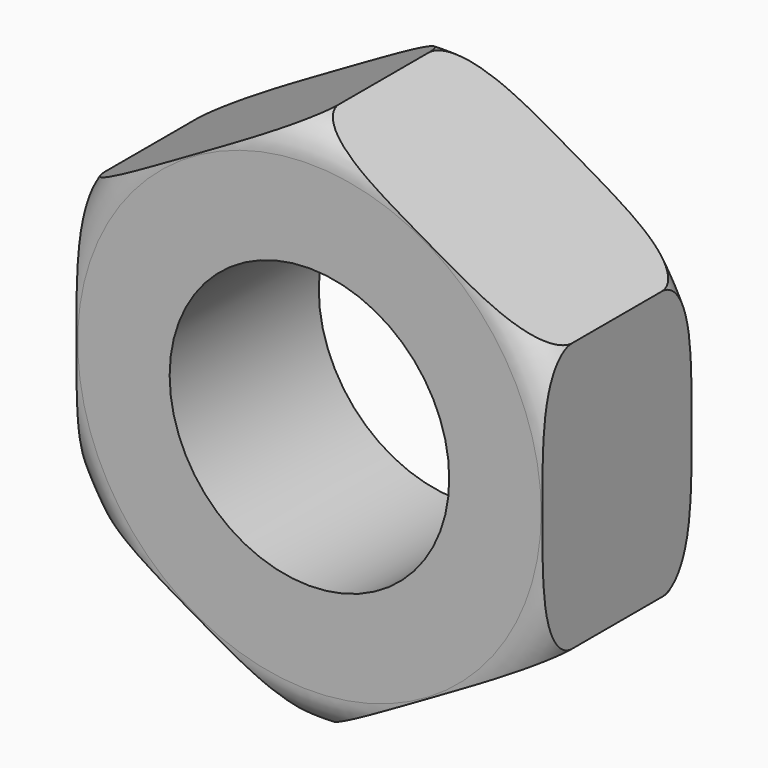
from build123d import *

# Parameters (mm, degrees)
F0_R     = 5.7735026919
F0_R_2   = 3
F1_DEPTH = 2
F3_R     = 0.8
F2_R     = 6
F4_DEPTH = 4.001


with BuildPart() as f1:
    # F0 (on Front) → F1 (new body, symmetric)
    with BuildSketch(Plane.XZ):
        Circle(F0_R)
        Circle(F0_R_2, mode=Mode.SUBTRACT)
    extrude(amount=F1_DEPTH, both=True)

    # F3
    f3_edges = [f1.edges().sort_by_distance(p)[0] for p in [
        (-5.773503, -2, 0),
        (-5.773503, 2, 0),
    ]]
    fillet(f3_edges, radius=F3_R)

    # F2 (on face) → F4 (cut, through all)
    with BuildSketch(Plane.XZ.offset(2)):
        Circle(F2_R)
        Polygon((0, -5.7735026919), (-5, -2.8867513459), (-5, 2.8867513459), (0, 5.7735026919), (5, 2.8867513459), (5, -2.8867513459), align=None, mode=Mode.SUBTRACT)
    extrude(amount=-F4_DEPTH, mode=Mode.SUBTRACT)


solid = f1.part
